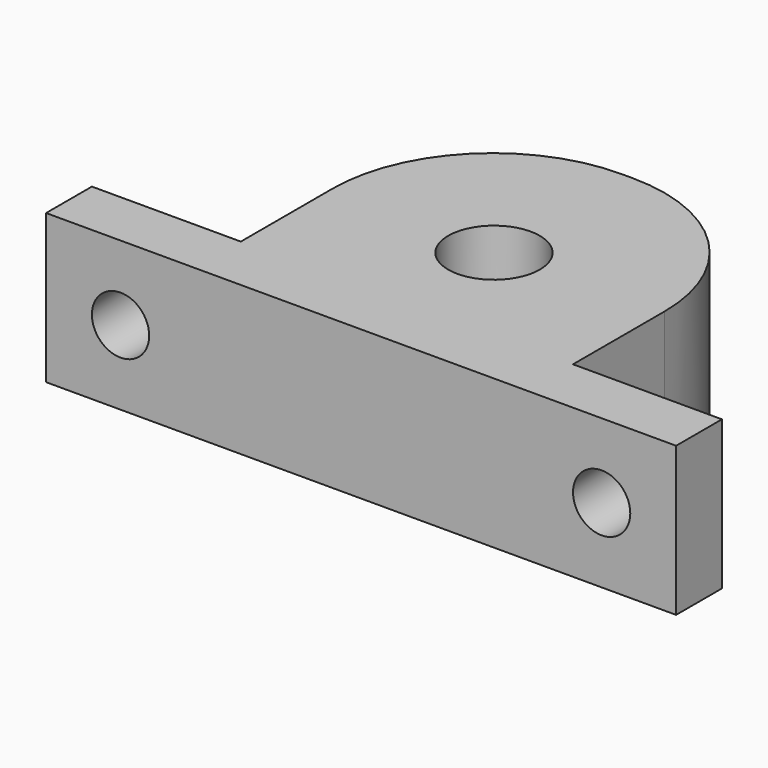
from build123d import *

# Parameters (mm, degrees)
SKETCH_R     = 4
PAD_DEPTH    = 13
SKETCH001_R  = 2.5
POCKET_DEPTH = 5
FILLET_R     = 14


with BuildPart() as part:
    # Sketch → Pad (new body)
    with BuildSketch(Plane.XY):
        Polygon((27.5, 0), (-27.5, 0), (-27.5, 5), (-14.5, 5), (-14.5, 29), (14.5, 29), (14.5, 5), (27.5, 5), align=None)
        with Locations((0, 14.5)):
            Circle(SKETCH_R, mode=Mode.SUBTRACT)
    extrude(amount=PAD_DEPTH)

    # Sketch001 → Pocket (cut)
    with BuildSketch(Plane.XZ):
        with Locations((-21, 6.5)):
            Circle(SKETCH001_R)
        with Locations((21, 6.5)):
            Circle(SKETCH001_R)
    extrude(amount=-POCKET_DEPTH, mode=Mode.SUBTRACT)

    # Fillet
    fillet_edges = [part.edges().sort_by_distance(p)[0] for p in [
        (-14.5, 29, 6.5),
        (14.5, 29, 6.5),
    ]]
    fillet(fillet_edges, radius=FILLET_R)


solid = part.part
